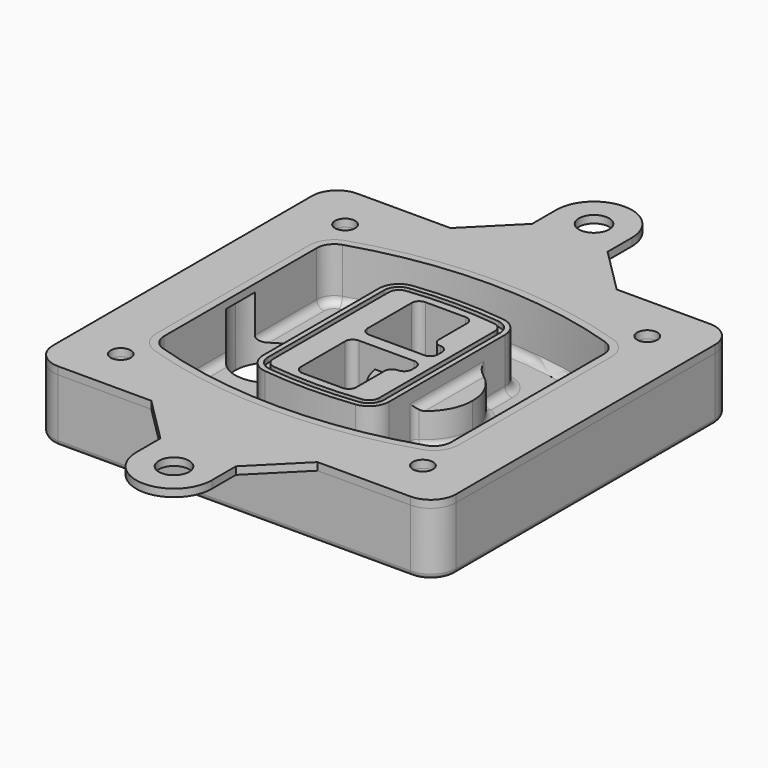
from build123d import *

# Parameters (mm, degrees)
F0_R      = 4
F1_DEPTH  = 25
F2_DEPTH  = 3
F3_DEPTH  = 18
F5_DEPTH  = 21
F6_DEPTH  = 2
F8_DEPTH  = 20
F9_DEPTH  = 16
F10_DEPTH = 25
F7_R      = 6
F7_R_2    = 4
F11_DEPTH = 6
F13_DEPTH = 9
F14_R     = 3
F15_R     = 2
F16_R     = 4
F16_R_2   = 6
F17_DEPTH = 3


with BuildPart() as f1:
    # F0 (on Top) → F1 (new body)
    with BuildSketch(Plane.XY):
        with BuildLine():
            ThreePointArc((14.05, 38.3825811321), (16.9789321881, 31.3115133202), (24.05, 28.3825811321))
            Line((24.05, 28.3825811321), (164.05, 28.3825811321))
            ThreePointArc((164.05, 28.3825811321), (171.1210678119, 31.3115133202), (174.05, 38.3825811321))
            Line((174.05, 38.3825811321), (174.05, 166.8825811321))
            ThreePointArc((174.05, 166.8825811321), (171.1210678119, 173.9536489439), (164.05, 176.8825811321))
            Line((164.05, 176.8825811321), (24.05, 176.8825811321))
            ThreePointArc((24.05, 176.8825811321), (16.9789321881, 173.9536489439), (14.05, 166.8825811321))
            Line((14.05, 166.8825811321), (14.05, 38.3825811321))
        make_face()
        with Locations((34.05, 46.9450811321)):
            Circle(F0_R, mode=Mode.SUBTRACT)
        with Locations((154.05, 46.9450811321)):
            Circle(F0_R, mode=Mode.SUBTRACT)
        with BuildLine():
            ThreePointArc((30.05, 140.5004951022), (32.7397851773, 148.7514975059), (39.7755772379, 153.8320107719))
            ThreePointArc((39.7755772379, 153.8320107719), (94.05, 162.3200811321), (148.3244227621, 153.8320107719))
            ThreePointArc((148.3244227621, 153.8320107719), (155.3602148227, 148.7514975059), (158.05, 140.5004951022))
            Line((158.05, 140.5004951022), (158.05, 64.7646671619))
            ThreePointArc((158.05, 64.7646671619), (155.3602148227, 56.5136647582), (148.3244227621, 51.4331514922))
            ThreePointArc((148.3244227621, 51.4331514922), (94.05, 42.9450811321), (39.7755772379, 51.4331514922))
            ThreePointArc((39.7755772379, 51.4331514922), (32.7397851773, 56.5136647582), (30.05, 64.7646671619))
            Line((30.05, 64.7646671619), (30.05, 140.5004951022))
        make_face(mode=Mode.SUBTRACT)
        with Locations((34.05, 158.3200811321)):
            Circle(F0_R, mode=Mode.SUBTRACT)
        with Locations((154.05, 158.3200811321)):
            Circle(F0_R, mode=Mode.SUBTRACT)
        with BuildLine():
            ThreePointArc((148.3244227621, 153.8320107719), (94.05, 162.3200811321), (39.7755772379, 153.8320107719))
            ThreePointArc((39.7755772379, 153.8320107719), (32.7397851773, 148.7514975059), (30.05, 140.5004951022))
            Line((30.05, 140.5004951022), (30.05, 64.7646671619))
            ThreePointArc((30.05, 64.7646671619), (32.7397851773, 56.5136647582), (39.7755772379, 51.4331514922))
            ThreePointArc((39.7755772379, 51.4331514922), (94.05, 42.9450811321), (148.3244227621, 51.4331514922))
            ThreePointArc((148.3244227621, 51.4331514922), (155.3602148227, 56.5136647582), (158.05, 64.7646671619))
            Line((158.05, 64.7646671619), (158.05, 140.5004951022))
            ThreePointArc((158.05, 140.5004951022), (155.3602148227, 148.7514975059), (148.3244227621, 153.8320107719))
        make_face()
        with BuildLine():
            Line((34.05, 64.7646671619), (34.05, 140.5004951022))
            ThreePointArc((34.05, 140.5004951022), (35.9712751267, 146.3940682477), (40.9968408842, 150.0230062948))
            ThreePointArc((40.9968408842, 150.0230062948), (94.05, 158.3200811321), (147.1031591158, 150.0230062948))
            ThreePointArc((147.1031591158, 150.0230062948), (152.1287248733, 146.3940682477), (154.05, 140.5004951022))
            Line((154.05, 140.5004951022), (154.05, 64.7646671619))
            ThreePointArc((154.05, 64.7646671619), (152.1287248733, 58.8710940164), (147.1031591158, 55.2421559693))
            ThreePointArc((147.1031591158, 55.2421559693), (94.05, 46.9450811321), (40.9968408842, 55.2421559693))
            ThreePointArc((40.9968408842, 55.2421559693), (35.9712751267, 58.8710940164), (34.05, 64.7646671619))
        make_face(mode=Mode.SUBTRACT)
        with BuildLine():
            ThreePointArc((40.9968408842, 150.0230062948), (35.9712751267, 146.3940682477), (34.05, 140.5004951022))
            Line((34.05, 140.5004951022), (34.05, 64.7646671619))
            ThreePointArc((34.05, 64.7646671619), (35.9712751267, 58.8710940164), (40.9968408842, 55.2421559693))
            ThreePointArc((40.9968408842, 55.2421559693), (94.05, 46.9450811321), (147.1031591158, 55.2421559693))
            ThreePointArc((147.1031591158, 55.2421559693), (152.1287248733, 58.8710940164), (154.05, 64.7646671619))
            Line((154.05, 64.7646671619), (154.05, 140.5004951022))
            ThreePointArc((154.05, 140.5004951022), (152.1287248733, 146.3940682477), (147.1031591158, 150.0230062948))
            ThreePointArc((147.1031591158, 150.0230062948), (94.05, 158.3200811321), (40.9968408842, 150.0230062948))
        make_face()
        with BuildLine():
            ThreePointArc((146.1872113811, 147.166252937), (149.7051074113, 144.625996304), (151.05, 140.5004951022))
            Line((151.05, 140.5004951022), (151.05, 64.7646671619))
            ThreePointArc((151.05, 64.7646671619), (149.7051074113, 60.6391659601), (146.1872113811, 58.0989093271))
            ThreePointArc((146.1872113811, 58.0989093271), (94.05, 49.9450811321), (41.9127886189, 58.0989093271))
            ThreePointArc((41.9127886189, 58.0989093271), (38.3948925887, 60.6391659601), (37.05, 64.7646671619))
            Line((37.05, 64.7646671619), (37.05, 140.5004951022))
            ThreePointArc((37.05, 140.5004951022), (38.3948925887, 144.625996304), (41.9127886189, 147.166252937))
            ThreePointArc((41.9127886189, 147.166252937), (94.05, 155.3200811321), (146.1872113811, 147.166252937))
        make_face(mode=Mode.SUBTRACT)
        with BuildLine():
            Line((151.05, 64.7646671619), (151.05, 140.5004951022))
            ThreePointArc((151.05, 140.5004951022), (149.7051074113, 144.625996304), (146.1872113811, 147.166252937))
            ThreePointArc((146.1872113811, 147.166252937), (94.05, 155.3200811321), (41.9127886189, 147.166252937))
            ThreePointArc((41.9127886189, 147.166252937), (38.3948925887, 144.625996304), (37.05, 140.5004951022))
            Line((37.05, 140.5004951022), (37.05, 64.7646671619))
            ThreePointArc((37.05, 64.7646671619), (38.3948925887, 60.6391659601), (41.9127886189, 58.0989093271))
            ThreePointArc((41.9127886189, 58.0989093271), (94.05, 49.9450811321), (146.1872113811, 58.0989093271))
            ThreePointArc((146.1872113811, 58.0989093271), (149.7051074113, 60.6391659601), (151.05, 64.7646671619))
        make_face()
    extrude(amount=-F1_DEPTH)

    # F0 (on Top) → F2 (join)
    with BuildSketch(Plane.XY):
        with BuildLine():
            ThreePointArc((40.9968408842, 150.0230062948), (35.9712751267, 146.3940682477), (34.05, 140.5004951022))
            Line((34.05, 140.5004951022), (34.05, 64.7646671619))
            ThreePointArc((34.05, 64.7646671619), (35.9712751267, 58.8710940164), (40.9968408842, 55.2421559693))
            ThreePointArc((40.9968408842, 55.2421559693), (94.05, 46.9450811321), (147.1031591158, 55.2421559693))
            ThreePointArc((147.1031591158, 55.2421559693), (152.1287248733, 58.8710940164), (154.05, 64.7646671619))
            Line((154.05, 64.7646671619), (154.05, 140.5004951022))
            ThreePointArc((154.05, 140.5004951022), (152.1287248733, 146.3940682477), (147.1031591158, 150.0230062948))
            ThreePointArc((147.1031591158, 150.0230062948), (94.05, 158.3200811321), (40.9968408842, 150.0230062948))
        make_face()
        with BuildLine():
            ThreePointArc((146.1872113811, 147.166252937), (149.7051074113, 144.625996304), (151.05, 140.5004951022))
            Line((151.05, 140.5004951022), (151.05, 64.7646671619))
            ThreePointArc((151.05, 64.7646671619), (149.7051074113, 60.6391659601), (146.1872113811, 58.0989093271))
            ThreePointArc((146.1872113811, 58.0989093271), (94.05, 49.9450811321), (41.9127886189, 58.0989093271))
            ThreePointArc((41.9127886189, 58.0989093271), (38.3948925887, 60.6391659601), (37.05, 64.7646671619))
            Line((37.05, 64.7646671619), (37.05, 140.5004951022))
            ThreePointArc((37.05, 140.5004951022), (38.3948925887, 144.625996304), (41.9127886189, 147.166252937))
            ThreePointArc((41.9127886189, 147.166252937), (94.05, 155.3200811321), (146.1872113811, 147.166252937))
        make_face(mode=Mode.SUBTRACT)
    extrude(amount=F2_DEPTH)

    # F0 (on Top) → F3 (cut)
    with BuildSketch(Plane.XY):
        with BuildLine():
            Line((151.05, 64.7646671619), (151.05, 140.5004951022))
            ThreePointArc((151.05, 140.5004951022), (149.7051074113, 144.625996304), (146.1872113811, 147.166252937))
            ThreePointArc((146.1872113811, 147.166252937), (94.05, 155.3200811321), (41.9127886189, 147.166252937))
            ThreePointArc((41.9127886189, 147.166252937), (38.3948925887, 144.625996304), (37.05, 140.5004951022))
            Line((37.05, 140.5004951022), (37.05, 64.7646671619))
            ThreePointArc((37.05, 64.7646671619), (38.3948925887, 60.6391659601), (41.9127886189, 58.0989093271))
            ThreePointArc((41.9127886189, 58.0989093271), (94.05, 49.9450811321), (146.1872113811, 58.0989093271))
            ThreePointArc((146.1872113811, 58.0989093271), (149.7051074113, 60.6391659601), (151.05, 64.7646671619))
        make_face()
    extrude(amount=-F3_DEPTH, mode=Mode.SUBTRACT)

    # F4 (on face) → F5 (join, through all)
    with BuildSketch(Plane.XY.offset(3)):
        with BuildLine():
            ThreePointArc((69.05, 73.9262440188), (71.0765984354, 68.6047335426), (76.129618437, 65.9793642677))
            ThreePointArc((76.129618437, 65.9793642677), (94.05, 64.9450811321), (111.970381563, 65.9793642677))
            ThreePointArc((111.970381563, 65.9793642677), (117.0234015646, 68.6047335426), (119.05, 73.9262440188))
            Line((119.05, 73.9262440188), (119.05, 131.3389182453))
            ThreePointArc((119.05, 131.3389182453), (117.0234015646, 136.6604287215), (111.970381563, 139.2857979964))
            ThreePointArc((111.970381563, 139.2857979964), (94.05, 140.3200811321), (76.129618437, 139.2857979964))
            ThreePointArc((76.129618437, 139.2857979964), (71.0765984354, 136.6604287215), (69.05, 131.3389182453))
            Line((69.05, 131.3389182453), (69.05, 73.9262440188))
        make_face()
        with BuildLine():
            ThreePointArc((111.7402861722, 137.2990780587), (115.5300511734, 135.3300511025), (117.05, 131.3389182453))
            Line((117.05, 131.3389182453), (117.05, 73.9262440188))
            ThreePointArc((117.05, 73.9262440188), (115.5300511734, 69.9351111616), (111.7402861722, 67.9660842054))
            ThreePointArc((111.7402861722, 67.9660842054), (94.05, 66.9450811321), (76.3597138278, 67.9660842054))
            ThreePointArc((76.3597138278, 67.9660842054), (72.5699488266, 69.9351111616), (71.05, 73.9262440188))
            Line((71.05, 73.9262440188), (71.05, 131.3389182453))
            ThreePointArc((71.05, 131.3389182453), (72.5699488266, 135.3300511025), (76.3597138278, 137.2990780587))
            ThreePointArc((76.3597138278, 137.2990780587), (94.05, 138.3200811321), (111.7402861722, 137.2990780587))
        make_face(mode=Mode.SUBTRACT)
        with BuildLine():
            Line((117.05, 73.9262440188), (117.05, 131.3389182453))
            ThreePointArc((117.05, 131.3389182453), (115.5300511734, 135.3300511025), (111.7402861722, 137.2990780587))
            ThreePointArc((111.7402861722, 137.2990780587), (94.05, 138.3200811321), (76.3597138278, 137.2990780587))
            ThreePointArc((76.3597138278, 137.2990780587), (72.5699488266, 135.3300511025), (71.05, 131.3389182453))
            Line((71.05, 131.3389182453), (71.05, 73.9262440188))
            ThreePointArc((71.05, 73.9262440188), (72.5699488266, 69.9351111616), (76.3597138278, 67.9660842054))
            ThreePointArc((76.3597138278, 67.9660842054), (94.05, 66.9450811321), (111.7402861722, 67.9660842054))
            ThreePointArc((111.7402861722, 67.9660842054), (115.5300511734, 69.9351111616), (117.05, 73.9262440188))
        make_face()
        with BuildLine():
            ThreePointArc((111.5101907815, 135.3123581209), (114.0367007823, 133.9996734834), (115.05, 131.3389182453))
            Line((115.05, 131.3389182453), (115.05, 73.9262440188))
            ThreePointArc((115.05, 73.9262440188), (114.0367007823, 71.2654887807), (111.5101907815, 69.9528041432))
            ThreePointArc((111.5101907815, 69.9528041432), (94.05, 68.9450811321), (76.5898092185, 69.9528041432))
            ThreePointArc((76.5898092185, 69.9528041432), (74.0632992177, 71.2654887807), (73.05, 73.9262440188))
            Line((73.05, 73.9262440188), (73.05, 131.3389182453))
            ThreePointArc((73.05, 131.3389182453), (74.0632992177, 133.9996734834), (76.5898092185, 135.3123581209))
            ThreePointArc((76.5898092185, 135.3123581209), (94.05, 136.3200811321), (111.5101907815, 135.3123581209))
        make_face(mode=Mode.SUBTRACT)
        with BuildLine():
            Line((115.05, 73.9262440188), (115.05, 131.3389182453))
            ThreePointArc((115.05, 131.3389182453), (114.0367007823, 133.9996734834), (111.5101907815, 135.3123581209))
            ThreePointArc((111.5101907815, 135.3123581209), (94.05, 136.3200811321), (76.5898092185, 135.3123581209))
            ThreePointArc((76.5898092185, 135.3123581209), (74.0632992177, 133.9996734834), (73.05, 131.3389182453))
            Line((73.05, 131.3389182453), (73.05, 73.9262440188))
            ThreePointArc((73.05, 73.9262440188), (74.0632992177, 71.2654887807), (76.5898092185, 69.9528041432))
            ThreePointArc((76.5898092185, 69.9528041432), (94.05, 68.9450811321), (111.5101907815, 69.9528041432))
            ThreePointArc((111.5101907815, 69.9528041432), (114.0367007823, 71.2654887807), (115.05, 73.9262440188))
        make_face()
        with BuildLine():
            Line((86.05, 100.1325811321), (108.05, 100.1325811321))
            ThreePointArc((108.05, 100.1325811321), (110.1713203436, 99.2539014756), (111.05, 97.1325811321))
            Line((111.05, 97.1325811321), (111.05, 95.1325811321))
            ThreePointArc((111.05, 95.1325811321), (110.1713203436, 93.0112607885), (108.05, 92.1325811321))
            ThreePointArc((108.05, 92.1325811321), (105.9286796564, 91.2539014756), (105.05, 89.1325811321))
            Line((105.05, 89.1325811321), (105.05, 75.1325811321))
            ThreePointArc((105.05, 75.1325811321), (104.1713203436, 73.0112607885), (102.05, 72.1325811321))
            Line((102.05, 72.1325811321), (86.05, 72.1325811321))
            ThreePointArc((86.05, 72.1325811321), (83.9286796564, 73.0112607885), (83.05, 75.1325811321))
            Line((83.05, 75.1325811321), (83.05, 97.1325811321))
            ThreePointArc((83.05, 97.1325811321), (83.9286796564, 99.2539014756), (86.05, 100.1325811321))
        make_face(mode=Mode.SUBTRACT)
        with BuildLine():
            ThreePointArc((86.05, 105.1325811321), (83.9286796564, 106.0112607885), (83.05, 108.1325811321))
            Line((83.05, 108.1325811321), (83.05, 130.1325811321))
            ThreePointArc((83.05, 130.1325811321), (83.9286796564, 132.2539014756), (86.05, 133.1325811321))
            Line((86.05, 133.1325811321), (102.05, 133.1325811321))
            ThreePointArc((102.05, 133.1325811321), (104.1713203436, 132.2539014756), (105.05, 130.1325811321))
            Line((105.05, 130.1325811321), (105.05, 116.1325811321))
            ThreePointArc((105.05, 116.1325811321), (105.9286796564, 114.0112607885), (108.05, 113.1325811321))
            ThreePointArc((108.05, 113.1325811321), (110.1713203436, 112.2539014756), (111.05, 110.1325811321))
            Line((111.05, 110.1325811321), (111.05, 108.1325811321))
            ThreePointArc((111.05, 108.1325811321), (110.1713203436, 106.0112607885), (108.05, 105.1325811321))
            Line((108.05, 105.1325811321), (86.05, 105.1325811321))
        make_face(mode=Mode.SUBTRACT)
    extrude(amount=-F5_DEPTH)

    # F4 (on face) → F6 (cut)
    with BuildSketch(Plane.XY.offset(3)):
        with BuildLine():
            Line((117.05, 73.9262440188), (117.05, 131.3389182453))
            ThreePointArc((117.05, 131.3389182453), (115.5300511734, 135.3300511025), (111.7402861722, 137.2990780587))
            ThreePointArc((111.7402861722, 137.2990780587), (94.05, 138.3200811321), (76.3597138278, 137.2990780587))
            ThreePointArc((76.3597138278, 137.2990780587), (72.5699488266, 135.3300511025), (71.05, 131.3389182453))
            Line((71.05, 131.3389182453), (71.05, 73.9262440188))
            ThreePointArc((71.05, 73.9262440188), (72.5699488266, 69.9351111616), (76.3597138278, 67.9660842054))
            ThreePointArc((76.3597138278, 67.9660842054), (94.05, 66.9450811321), (111.7402861722, 67.9660842054))
            ThreePointArc((111.7402861722, 67.9660842054), (115.5300511734, 69.9351111616), (117.05, 73.9262440188))
        make_face()
        with BuildLine():
            ThreePointArc((111.5101907815, 135.3123581209), (114.0367007823, 133.9996734834), (115.05, 131.3389182453))
            Line((115.05, 131.3389182453), (115.05, 73.9262440188))
            ThreePointArc((115.05, 73.9262440188), (114.0367007823, 71.2654887807), (111.5101907815, 69.9528041432))
            ThreePointArc((111.5101907815, 69.9528041432), (94.05, 68.9450811321), (76.5898092185, 69.9528041432))
            ThreePointArc((76.5898092185, 69.9528041432), (74.0632992177, 71.2654887807), (73.05, 73.9262440188))
            Line((73.05, 73.9262440188), (73.05, 131.3389182453))
            ThreePointArc((73.05, 131.3389182453), (74.0632992177, 133.9996734834), (76.5898092185, 135.3123581209))
            ThreePointArc((76.5898092185, 135.3123581209), (94.05, 136.3200811321), (111.5101907815, 135.3123581209))
        make_face(mode=Mode.SUBTRACT)
    extrude(amount=-F6_DEPTH, mode=Mode.SUBTRACT)

    # F7 (on face) → F8 (join)
    with BuildSketch(Plane(origin=(0, 0, -25), x_dir=(1, 0, 0), z_dir=(0, 0, -1))):
        with BuildLine():
            ThreePointArc((97.33842436, -102.6325811321), (110.8067035675, -89.1643019245), (124.274982775, -102.6325811321))
            Line((124.274982775, -102.6325811321), (129.274982775, -102.6325811321))
            ThreePointArc((129.274982775, -102.6325811321), (110.8067035675, -84.1643019245), (92.33842436, -102.6325811321))
            Line((92.33842436, -102.6325811321), (97.33842436, -102.6325811321))
        make_face()
        with BuildLine():
            Line((97.33842436, -102.6325811321), (124.274982775, -102.6325811321))
            ThreePointArc((124.274982775, -102.6325811321), (110.8067035675, -89.1643019245), (97.33842436, -102.6325811321))
        make_face()
        with BuildLine():
            ThreePointArc((97.33842436, -102.6325811321), (110.8067035675, -116.1008603396), (124.274982775, -102.6325811321))
            Line((124.274982775, -102.6325811321), (97.33842436, -102.6325811321))
        make_face()
        with BuildLine():
            Line((129.274982775, -102.6325811321), (124.274982775, -102.6325811321))
            ThreePointArc((124.274982775, -102.6325811321), (110.8067035675, -116.1008603396), (97.33842436, -102.6325811321))
            Line((97.33842436, -102.6325811321), (92.33842436, -102.6325811321))
            ThreePointArc((92.33842436, -102.6325811321), (110.8067035675, -121.1008603396), (129.274982775, -102.6325811321))
        make_face()
    extrude(amount=-F8_DEPTH)

    # F7 (on face) → F9 (cut)
    with BuildSketch(Plane(origin=(0, 0, -25), x_dir=(1, 0, 0), z_dir=(0, 0, -1))):
        with BuildLine():
            Line((97.33842436, -102.6325811321), (124.274982775, -102.6325811321))
            ThreePointArc((124.274982775, -102.6325811321), (110.8067035675, -89.1643019245), (97.33842436, -102.6325811321))
        make_face()
        with BuildLine():
            ThreePointArc((97.33842436, -102.6325811321), (110.8067035675, -116.1008603396), (124.274982775, -102.6325811321))
            Line((124.274982775, -102.6325811321), (97.33842436, -102.6325811321))
        make_face()
    extrude(amount=-F9_DEPTH, mode=Mode.SUBTRACT)

    # F7 (on face) → F10 (cut)
    with BuildSketch(Plane(origin=(0, 0, -25), x_dir=(1, 0, 0), z_dir=(0, 0, -1))):
        with BuildLine():
            Line((35.0181770675, -102.6325811321), (61.9547354825, -102.6325811321))
            ThreePointArc((61.9547354825, -102.6325811321), (48.486456275, -89.1643019245), (35.0181770675, -102.6325811321))
        make_face()
        with BuildLine():
            ThreePointArc((35.0181770675, -102.6325811321), (48.486456275, -116.1008603396), (61.9547354825, -102.6325811321))
            Line((61.9547354825, -102.6325811321), (35.0181770675, -102.6325811321))
        make_face()
    extrude(amount=-F10_DEPTH, mode=Mode.SUBTRACT)

    # F7 (on face) → F11 (cut)
    with BuildSketch(Plane(origin=(0, 0, -25), x_dir=(1, 0, 0), z_dir=(0, 0, -1))):
        with Locations((154.05, -158.3200811321)):
            Circle(F7_R)
        with Locations((154.05, -158.3200811321)):
            Circle(F7_R_2, mode=Mode.SUBTRACT)
        with Locations((154.05, -158.3200811321)):
            Circle(F7_R)
        with Locations((154.05, -158.3200811321)):
            Circle(F7_R_2, mode=Mode.SUBTRACT)
        with Locations((34.05, -158.3200811321)):
            Circle(F7_R)
        with Locations((34.05, -158.3200811321)):
            Circle(F7_R_2, mode=Mode.SUBTRACT)
        with Locations((34.05, -158.3200811321)):
            Circle(F7_R)
        with Locations((34.05, -158.3200811321)):
            Circle(F7_R_2, mode=Mode.SUBTRACT)
        with Locations((34.05, -46.9450811321)):
            Circle(F7_R)
        with Locations((34.05, -46.9450811321)):
            Circle(F7_R_2, mode=Mode.SUBTRACT)
        with Locations((34.05, -46.9450811321)):
            Circle(F7_R)
        with Locations((34.05, -46.9450811321)):
            Circle(F7_R_2, mode=Mode.SUBTRACT)
        with Locations((154.05, -46.9450811321)):
            Circle(F7_R)
        with Locations((154.05, -46.9450811321)):
            Circle(F7_R_2, mode=Mode.SUBTRACT)
        with Locations((154.05, -46.9450811321)):
            Circle(F7_R)
        with Locations((154.05, -46.9450811321)):
            Circle(F7_R_2, mode=Mode.SUBTRACT)
    extrude(amount=-F11_DEPTH, mode=Mode.SUBTRACT)

    # F12 (on face) → F13 (cut, through all)
    with BuildSketch(Plane(origin=(0, 0, -9), x_dir=(1, 0, 0), z_dir=(0, 0, -1))):
        with BuildLine():
            Line((105.05, -89.1325811321), (105.05, -85.0844273567))
            ThreePointArc((105.05, -85.0844273567), (96.6196536419, -90.8086667507), (92.5084157545, -100.1325811321))
            Line((92.5084157545, -100.1325811321), (97.5724848595, -100.1325811321))
            ThreePointArc((97.5724848595, -100.1325811321), (100.2357188154, -94.2869939039), (105.3036447004, -90.3398642673))
            ThreePointArc((105.3036447004, -90.3398642673), (105.1140958889, -89.7494012441), (105.05, -89.1325811321))
        make_face()
        with BuildLine():
            ThreePointArc((105.3036447004, -114.9252979968), (100.2357188154, -110.9781683602), (97.5724848595, -105.1325811321))
            Line((97.5724848595, -105.1325811321), (92.5084157545, -105.1325811321))
            ThreePointArc((92.5084157545, -105.1325811321), (96.6196536419, -114.4564955134), (105.05, -120.1807349074))
            Line((105.05, -120.1807349074), (105.05, -116.1325811321))
            ThreePointArc((105.05, -116.1325811321), (105.1140958889, -115.51576102), (105.3036447004, -114.9252979968))
        make_face()
        with BuildLine():
            ThreePointArc((105.3036447004, -90.3398642673), (100.2357188154, -94.2869939039), (97.5724848595, -100.1325811321))
            Line((97.5724848595, -100.1325811321), (108.05, -100.1325811321))
            ThreePointArc((108.05, -100.1325811321), (110.1713203436, -99.2539014756), (111.05, -97.1325811321))
            Line((111.05, -97.1325811321), (111.05, -95.1325811321))
            ThreePointArc((111.05, -95.1325811321), (110.1713203436, -93.0112607885), (108.05, -92.1325811321))
            ThreePointArc((108.05, -92.1325811321), (106.4101599782, -91.6447365219), (105.3036447004, -90.3398642673))
        make_face()
        with BuildLine():
            Line((108.05, -105.1325811321), (97.5724848595, -105.1325811321))
            ThreePointArc((97.5724848595, -105.1325811321), (100.2357188154, -110.9781683602), (105.3036447004, -114.9252979968))
            ThreePointArc((105.3036447004, -114.9252979968), (106.4101599782, -113.6204257422), (108.05, -113.1325811321))
            ThreePointArc((108.05, -113.1325811321), (110.1713203436, -112.2539014756), (111.05, -110.1325811321))
            Line((111.05, -110.1325811321), (111.05, -108.1325811321))
            ThreePointArc((111.05, -108.1325811321), (110.1713203436, -106.0112607885), (108.05, -105.1325811321))
        make_face()
    extrude(amount=F13_DEPTH, mode=Mode.SUBTRACT)

    # F14
    f14_edges = [f1.edges().sort_by_distance(p)[0] for p in [
        (37.05, 80.14187, -18),
        (37.05, 125.123293, -18),
        (119.05, 102.632581, -5),
        (119.05, 119.159087, -11.5),
        (119.05, 86.106075, -11.5),
        (119.05, 80.01616, -18),
        (129.274983, 102.632581, -18),
    ]]
    fillet(f14_edges, radius=F14_R)

    # F15
    f15_edges = [f1.edges().sort_by_distance(p)[0] for p in [
        (94.05, 28.382581, -25),
    ]]
    fillet(f15_edges, radius=F15_R)


with BuildPart() as f17:
    # F16 (on face) → F17 (new body, through all)
    with BuildSketch(Plane.XY):
        with BuildLine():
            Line((127.05, 176.8825811321), (61.05, 176.8825811321))
            Line((61.05, 176.8825811321), (24.05, 176.8825811321))
            ThreePointArc((24.05, 176.8825811321), (16.9789321881, 173.9536489439), (14.05, 166.8825811321))
            Line((14.05, 166.8825811321), (14.05, 38.3825811321))
            ThreePointArc((14.05, 38.3825811321), (16.9789321881, 31.3115133202), (24.05, 28.3825811321))
            Line((24.05, 28.3825811321), (61.05, 28.3825811321))
            Line((61.05, 28.3825811321), (127.05, 28.3825811321))
            Line((127.05, 28.3825811321), (164.05, 28.3825811321))
            ThreePointArc((164.05, 28.3825811321), (171.1210678119, 31.3115133202), (174.05, 38.3825811321))
            Line((174.05, 38.3825811321), (174.05, 166.8825811321))
            ThreePointArc((174.05, 166.8825811321), (171.1210678119, 173.9536489439), (164.05, 176.8825811321))
            Line((164.05, 176.8825811321), (127.05, 176.8825811321))
        make_face()
        with Locations((34.05, 46.9450811321)):
            Circle(F16_R, mode=Mode.SUBTRACT)
        with BuildLine():
            ThreePointArc((40.9968408842, 150.0230062948), (94.05, 158.3200811321), (147.1031591158, 150.0230062948))
            ThreePointArc((147.1031591158, 150.0230062948), (152.1287248733, 146.3940682477), (154.05, 140.5004951022))
            Line((154.05, 140.5004951022), (154.05, 64.7646671619))
            ThreePointArc((154.05, 64.7646671619), (152.1287248733, 58.8710940164), (147.1031591158, 55.2421559693))
            ThreePointArc((147.1031591158, 55.2421559693), (94.05, 46.9450811321), (40.9968408842, 55.2421559693))
            ThreePointArc((40.9968408842, 55.2421559693), (35.9712751267, 58.8710940164), (34.05, 64.7646671619))
            Line((34.05, 64.7646671619), (34.05, 140.5004951022))
            ThreePointArc((34.05, 140.5004951022), (35.9712751267, 146.3940682477), (40.9968408842, 150.0230062948))
        make_face(mode=Mode.SUBTRACT)
        with Locations((154.05, 46.9450811321)):
            Circle(F16_R, mode=Mode.SUBTRACT)
        with Locations((34.05, 158.3200811321)):
            Circle(F16_R, mode=Mode.SUBTRACT)
        with Locations((154.05, 158.3200811321)):
            Circle(F16_R, mode=Mode.SUBTRACT)
        with BuildLine():
            Line((79.05, 194.8825811321), (61.05, 176.8825811321))
            Line((61.05, 176.8825811321), (127.05, 176.8825811321))
            Line((127.05, 176.8825811321), (109.05, 194.8825811321))
            Line((109.05, 194.8825811321), (109.05, 206.8825811321))
            ThreePointArc((109.05, 206.8825811321), (94.05, 221.8825811321), (79.05, 206.8825811321))
            Line((79.05, 206.8825811321), (79.05, 194.8825811321))
        make_face()
        with Locations((94.05, 206.8825811321)):
            Circle(F16_R_2, mode=Mode.SUBTRACT)
        with BuildLine():
            Line((127.05, 28.3825811321), (61.05, 28.3825811321))
            Line((61.05, 28.3825811321), (79.05, 10.3825811321))
            Line((79.05, 10.3825811321), (79.05, -1.6174188679))
            ThreePointArc((79.05, -1.6174188679), (94.05, -16.6174188679), (109.05, -1.6174188679))
            Line((109.05, -1.6174188679), (109.05, 10.3825811321))
            Line((109.05, 10.3825811321), (127.05, 28.3825811321))
        make_face()
        with Locations((94.05, -1.6174188679)):
            Circle(F16_R_2, mode=Mode.SUBTRACT)
    extrude(amount=F17_DEPTH)


solid = Compound([f1.part, f17.part])
